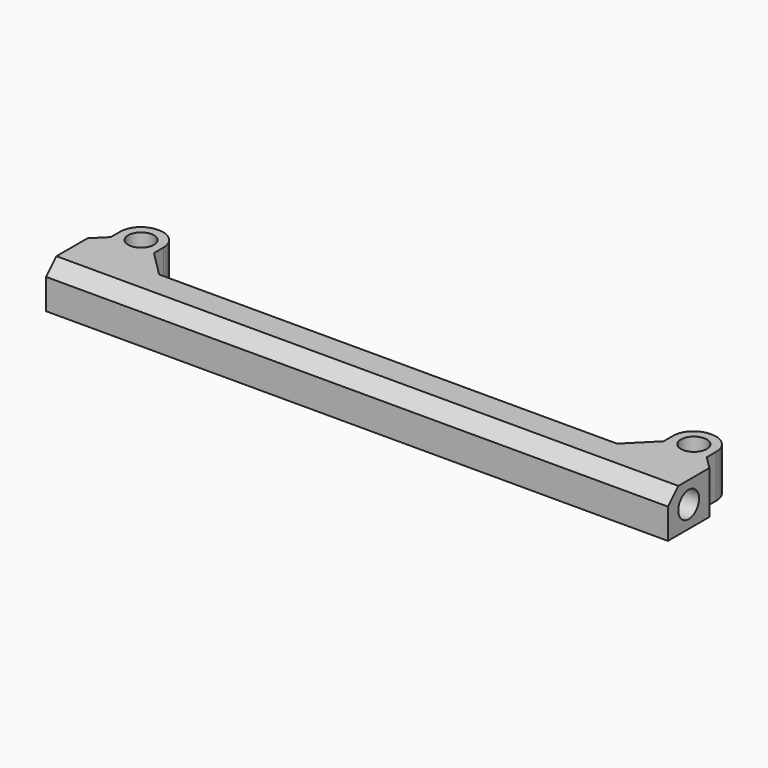
from build123d import *

# Parameters (mm, degrees)
SKETCH_W        = 72
SKETCH_H        = 6
PAD_DEPTH       = 2.5
SKETCH001_R     = 1.5
POCKET_DEPTH    = 11
SKETCH002_R     = 1.5
POCKET001_DEPTH = 11
SKETCH003_W     = 5
SKETCH003_H     = 5.85
SKETCH003_R     = 1.5
PAD001_DEPTH    = 5
CHAMFER_SIZE    = 1.49
FILLET_R        = 2.4
CHAMFER001_SIZE = 1.5


with BuildPart() as part:
    # Sketch → Pad (new body, symmetric)
    with BuildSketch(Plane.XY):
        Rectangle(SKETCH_W, SKETCH_H)
    extrude(amount=PAD_DEPTH, both=True)

    # Sketch001 → Pocket (cut)
    with BuildSketch(Plane(origin=(-36, 0, 0), x_dir=(0, -1, 0), z_dir=(-1, 0, 0))):
        Circle(SKETCH001_R)
    extrude(amount=-POCKET_DEPTH, mode=Mode.SUBTRACT)

    # Sketch002 → Pocket001 (cut)
    with BuildSketch(Plane.YZ.offset(36)):
        Circle(SKETCH002_R)
    extrude(amount=-POCKET001_DEPTH, mode=Mode.SUBTRACT)

    # Sketch003 → Pad001 (new body)
    with BuildSketch(Plane(origin=(0, 0, -2.5), x_dir=(1, 0, 0), z_dir=(0, 0, -1))):
        with Locations((32, -5.325)):
            Rectangle(SKETCH003_W, SKETCH003_H)
        with Locations((32, -5.75)):
            Circle(SKETCH003_R, mode=Mode.SUBTRACT)
        with Locations((-32, -5.325)):
            Rectangle(SKETCH003_W, SKETCH003_H)
        with Locations((-32, -5.75)):
            Circle(SKETCH003_R, mode=Mode.SUBTRACT)
    extrude(amount=-PAD001_DEPTH)

    # Chamfer
    chamfer_edges = [part.edges().sort_by_distance(p)[0] for p in [
        (34.5, 3, 0),
        (29.5, 3, 0),
        (-29.5, 3, 0),
        (-34.5, 3, 0),
    ]]
    chamfer(chamfer_edges, length=CHAMFER_SIZE)

    # Fillet
    fillet_edges = [part.edges().sort_by_distance(p)[0] for p in [
        (34.5, 8.25, 0),
        (29.5, 8.25, 0),
        (-29.5, 8.25, 0),
        (-34.5, 8.25, 0),
    ]]
    fillet(fillet_edges, radius=FILLET_R)

    # Chamfer001
    chamfer001_edges = [part.edges().sort_by_distance(p)[0] for p in [
        (0, -3, 2.5),
        (0, 3, 2.5),
    ]]
    chamfer(chamfer001_edges, length=CHAMFER001_SIZE)


solid = part.part
